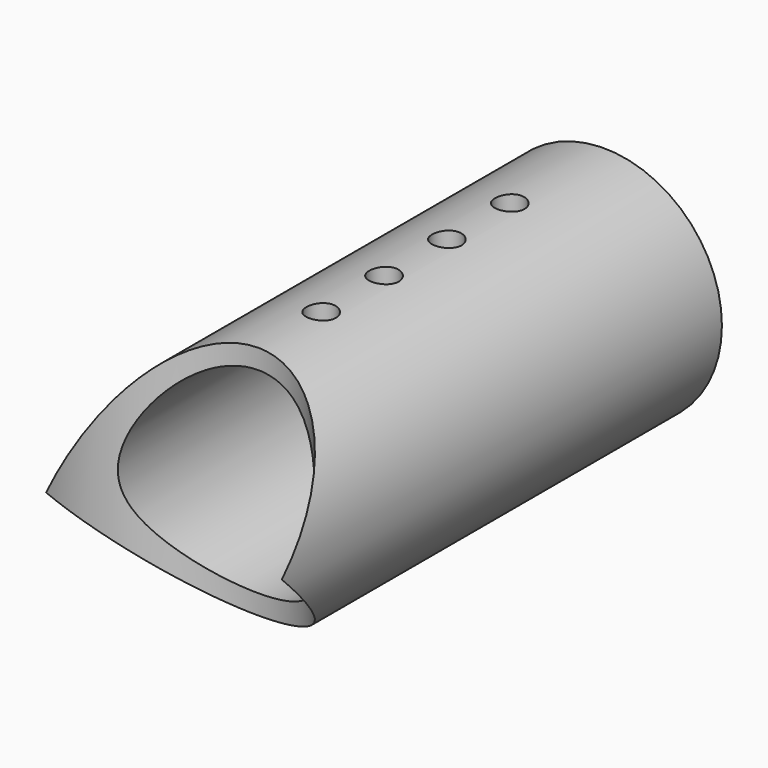
from build123d import *

# Parameters (mm, degrees)
F0_R     = 38.1
F0_R_2   = 31.75
F1_DEPTH = 88.9
F2_R     = 38.1
F3_DEPTH = 38.1
F4_R     = 4.7625
F5_DEPTH = 38.1


with BuildPart() as f1:
    # F0 (on Front) → F1 (new body, symmetric)
    with BuildSketch(Plane.XZ):
        Circle(F0_R)
        Circle(F0_R_2, mode=Mode.SUBTRACT)
    extrude(amount=F1_DEPTH, both=True)

    # F2 (on Top) → F3 (cut, symmetric)
    with BuildSketch(Plane.XY):
        with Locations((0, -88.9)):
            Circle(F2_R)
    extrude(amount=F3_DEPTH, both=True, mode=Mode.SUBTRACT)

    # F4 (on Top) → F5 (cut, symmetric)
    with BuildSketch(Plane.XY):
        with Locations((0, 50.8)):
            Circle(F4_R)
        with Locations((0, 25.4)):
            Circle(F4_R)
        Circle(F4_R)
        with Locations((0, -25.4)):
            Circle(F4_R)
    extrude(amount=F5_DEPTH, both=True, mode=Mode.SUBTRACT)


solid = f1.part
